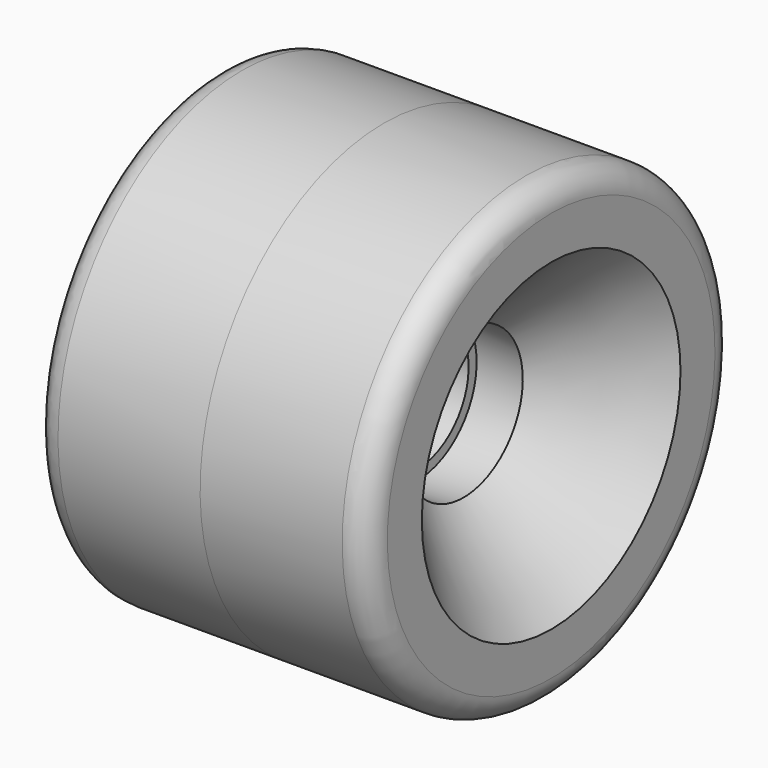
from build123d import *

# Parameters (mm, degrees)
F2_R = 3.81


with BuildPart() as f1:
    # F0 (on Front) → F1 (revolve)
    with BuildSketch(Plane.XZ):
        Polygon((0, 9.7282), (0.003413, 34.925), (-25.396586, 34.93188), (-25.399393, 24.572093), (-12.089987, 11.255475), (-5.079587, 11.253576), (-5.08, 9.729576), align=None)
        Polygon((25.403413, 34.925), (0.003413, 34.925), (0, 9.7282), (5.08, 9.7282), (5.08, 11.2522), (12.0904, 11.2522), (25.403413, 24.565213), align=None)
    revolve(axis=Axis((5.383427, 0, 0), (1, 0, 0)))

    # F2
    f2_edges = [f1.edges().sort_by_distance(p)[0] for p in [
        (25.403413, 0, -34.925),
        (-25.396586, 0, -34.93188),
    ]]
    fillet(f2_edges, radius=F2_R)


solid = f1.part
